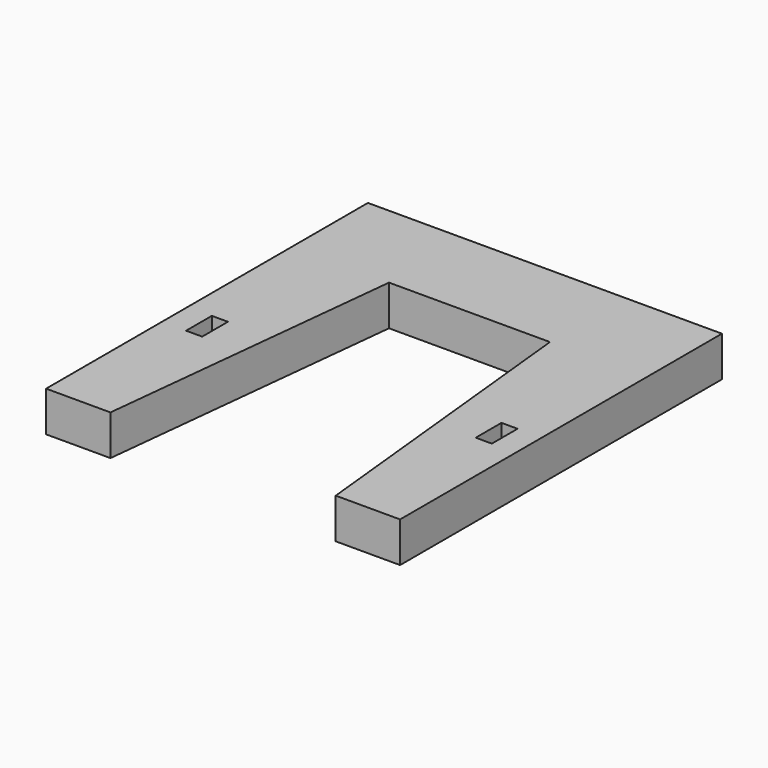
from build123d import *

# Parameters (mm, degrees)
F1_DEPTH = 25
F2_R     = 5
F3_DEPTH = 12
F4_W     = 10
F4_H     = 20
F5_DEPTH = 10


with BuildPart() as f1:
    # F0 (on Top) → F1 (new body)
    with BuildSketch(Plane.XY):
        Polygon((110, -125), (110, 125), (-110, 125), (-110, -125), (-70, -125), (-49.67048, 65.990649), (50.32952, 65.990649), (70, -125), align=None)
    extrude(amount=F1_DEPTH)

    # F2 (on face) → F3 (cut)
    with BuildSketch(Plane(origin=(0, 125, 0), x_dir=(-1, 0, 0), z_dir=(0, 1, 0))):
        with Locations((95, 12.5)):
            Circle(F2_R)
        with Locations((25, 12.5)):
            Circle(F2_R)
        with Locations((-25, 12.5)):
            Circle(F2_R)
        with Locations((-95, 12.5)):
            Circle(F2_R)
    extrude(amount=-F3_DEPTH, mode=Mode.SUBTRACT)

    # F4 (on face) → F5 (cut)
    with BuildSketch(Plane(origin=(0, 0, 0), x_dir=(1, 0, 0), z_dir=(0, 0, -1))):
        with Locations((-90, 25)):
            Rectangle(F4_W, F4_H)
        with Locations((90, 25)):
            Rectangle(F4_W, F4_H)
    extrude(amount=-F5_DEPTH, mode=Mode.SUBTRACT)


with BuildPart() as f7_1:
    # F7: instance of F1
    add(f1.part.mirror(Plane.XY.offset(-34)))


solid = f7_1.part
